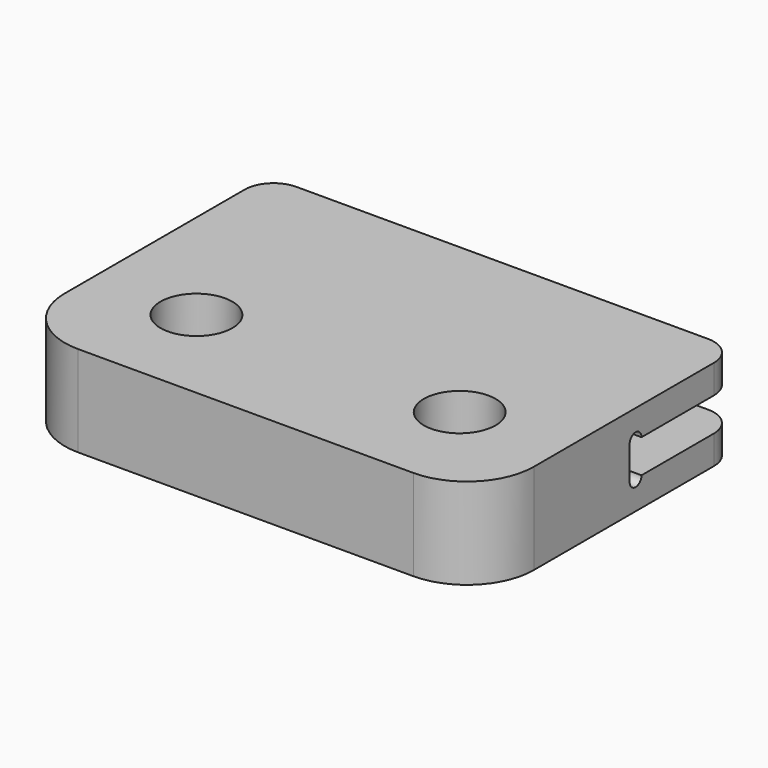
from build123d import *

# Parameters (mm, degrees)
F0_W     = 49
F0_H     = 33.5
F0_R     = 3.75
F1_DEPTH = 9.5
F2_R     = 7
F4_R     = 3
F3_W     = 49
F3_H     = 3.5
F5_DEPTH = 14
F7_DEPTH = 50


with BuildPart() as f1:
    # F0 (on Top) → F1 (new body)
    with BuildSketch(Plane.XY):
        with Locations((3.22683, 3.281258)):
            Rectangle(F0_W, F0_H)
        with Locations((-10.52317, -2.718742)):
            Circle(F0_R, mode=Mode.SUBTRACT)
        with Locations((16.97683, -2.718742)):
            Circle(F0_R, mode=Mode.SUBTRACT)
    extrude(amount=F1_DEPTH)

    # F2
    f2_edges = [f1.edges().sort_by_distance(p)[0] for p in [
        (-21.27317, -13.468742, 4.75),
        (27.72683, -13.468742, 4.75),
    ]]
    fillet(f2_edges, radius=F2_R)

    # F4
    f4_edges = [f1.edges().sort_by_distance(p)[0] for p in [
        (27.72683, 20.031258, 4.75),
        (-21.27317, 20.031258, 4.75),
    ]]
    fillet(f4_edges, radius=F4_R)

    # F3 (on face) → F5 (cut)
    with BuildSketch(Plane(origin=(0, 20.031258, 0), x_dir=(-1, 0, 0), z_dir=(0, 1, 0))):
        with Locations((-3.22683, 4.75)):
            Rectangle(F3_W, F3_H)
    extrude(amount=-F5_DEPTH, mode=Mode.SUBTRACT)

    # F6 (on face) → F7 (cut)
    with BuildSketch(Plane.YZ.offset(27.72683)):
        with BuildLine():
            ThreePointArc((7.577891, 6.5), (6.804574, 7.273316), (6.031258, 6.5))
            Line((6.031258, 6.5), (7.577891, 6.5))
        make_face()
        with BuildLine():
            Line((7.577891, 3), (6.031258, 3))
            ThreePointArc((6.031258, 3), (6.804574, 2.226684), (7.577891, 3))
        make_face()
    extrude(amount=-F7_DEPTH, mode=Mode.SUBTRACT)


solid = f1.part
